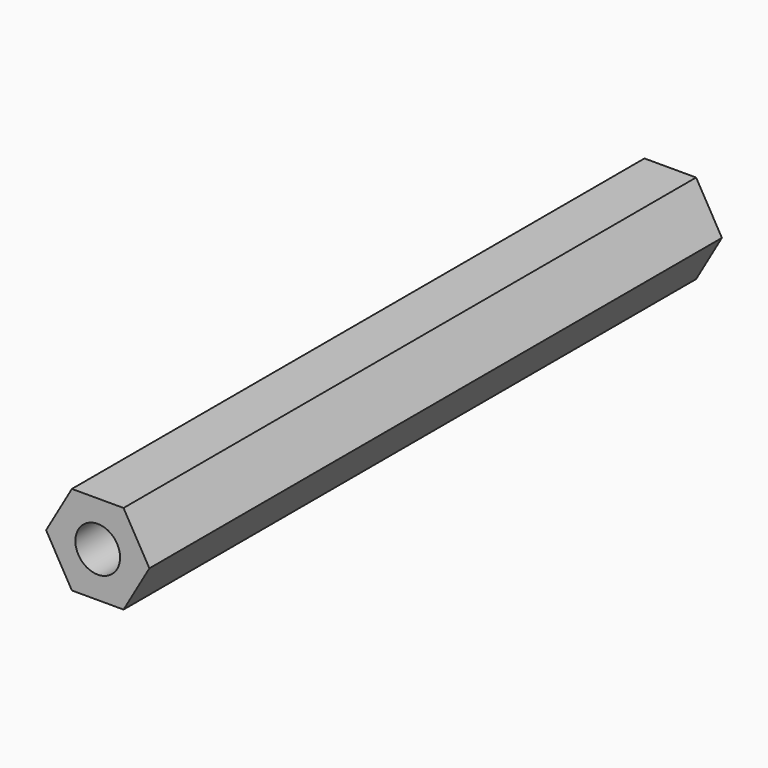
from build123d import *

# Parameters (mm, degrees)
F0_R     = 3.175
F1_DEPTH = 50.8
F2_R     = 13.907243
F3_DEPTH = 101.601


with BuildPart() as f1:
    # F0 (on Front) → F1 (new body, symmetric)
    with BuildSketch(Plane.XZ):
        Polygon((3.666174, 6.35), (-3.666174, 6.35), (-7.332348, 0), (-3.666174, -6.35), (3.666174, -6.35), (7.332348, 0), align=None)
        Circle(F0_R, mode=Mode.SUBTRACT)
    extrude(amount=F1_DEPTH, both=True)

    # F2 (on face) → F3 (cut, through all)
    with BuildSketch(Plane.XZ.offset(50.8)):
        Circle(F2_R)
        with BuildLine():
            ThreePointArc((4.181771, 5.456961), (5.953925, 3.4375), (6.816752, 0.893039))
            Line((6.816752, 0.893039), (7.332348, 0))
            Line((7.332348, 0), (6.816752, -0.893039))
            ThreePointArc((6.816752, -0.893039), (5.953925, -3.4375), (4.181771, -5.456961))
            Line((4.181771, -5.456961), (3.666174, -6.35))
            Line((3.666174, -6.35), (2.634981, -6.35))
            ThreePointArc((2.634981, -6.35), (0, -6.875), (-2.634981, -6.35))
            Line((-2.634981, -6.35), (-3.666174, -6.35))
            Line((-3.666174, -6.35), (-4.181771, -5.456961))
            ThreePointArc((-4.181771, -5.456961), (-5.953925, -3.4375), (-6.816752, -0.893039))
            Line((-6.816752, -0.893039), (-7.332348, 0))
            Line((-7.332348, 0), (-6.816752, 0.893039))
            ThreePointArc((-6.816752, 0.893039), (-5.953925, 3.4375), (-4.181771, 5.456961))
            Line((-4.181771, 5.456961), (-3.666174, 6.35))
            Line((-3.666174, 6.35), (-2.634981, 6.35))
            ThreePointArc((-2.634981, 6.35), (0, 6.875), (2.634981, 6.35))
            Line((2.634981, 6.35), (3.666174, 6.35))
            Line((3.666174, 6.35), (4.181771, 5.456961))
        make_face(mode=Mode.SUBTRACT)
    extrude(amount=-F3_DEPTH, mode=Mode.SUBTRACT)


solid = f1.part
